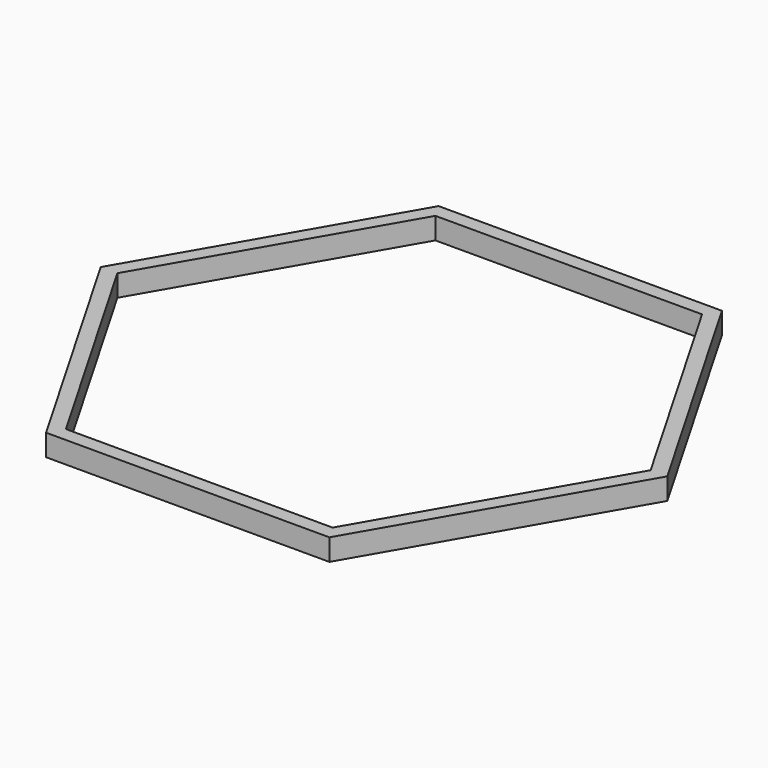
from build123d import *

# Parameters (mm, degrees)
F1_DEPTH = 1.905


with BuildPart() as f1:
    # F0 (on Top) → F1 (new body, symmetric)
    with BuildSketch(Plane.XY):
        Polygon((-49.859969, 0), (-24.929985, -43.18), (24.929985, -43.18), (49.859969, 0), (24.929985, 43.18), (-24.929985, 43.18), align=None)
        Polygon((-46.92703, 0), (-23.463515, 40.64), (23.463515, 40.64), (46.92703, 0), (23.463515, -40.64), (-23.463515, -40.64), align=None, mode=Mode.SUBTRACT)
    extrude(amount=F1_DEPTH, both=True)


solid = f1.part
